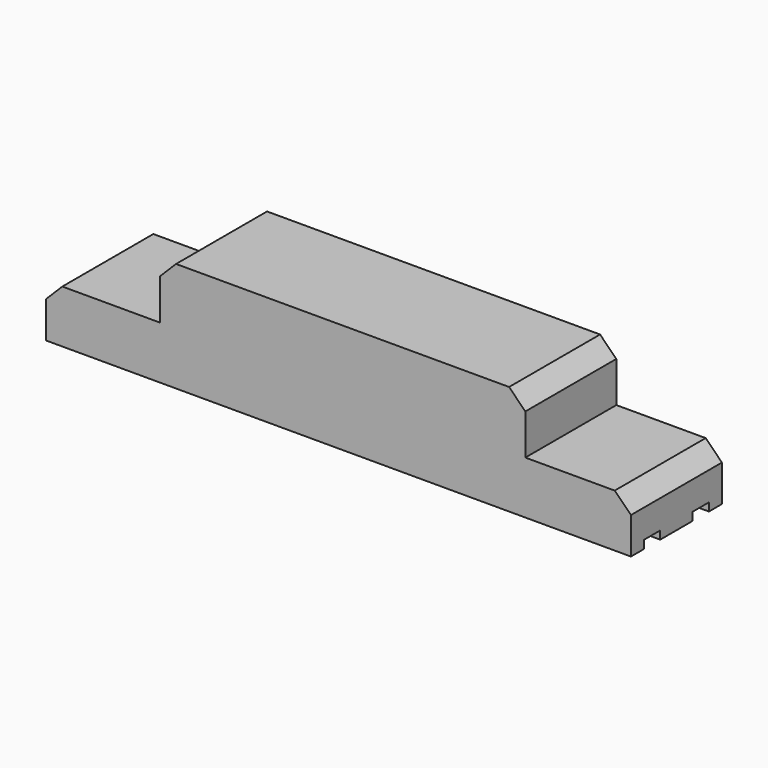
from build123d import *

# Parameters (mm, degrees)
F1_DEPTH = 44.45
F2_SIZE  = 12.7
F3_W     = 15.875
F3_H     = 6.35
F4_DEPTH = 241.3


with BuildPart() as f1:
    # F0 (on Front) → F1 (new body, symmetric)
    with BuildSketch(Plane.XZ):
        Polygon((228.6, -20.6375), (228.6, 20.6375), (146.05, 20.6375), (146.05, 65.0875), (-139.7, 65.0875), (-139.7, 20.6375), (-228.6, 20.6375), (-228.6, -20.6375), align=None)
    extrude(amount=F1_DEPTH, both=True)

    # F2
    f2_edges = [f1.edges().sort_by_distance(p)[0] for p in [
        (146.05, 0, 65.0875),
        (-139.7, 0, 65.0875),
        (-228.6, 0, 20.6375),
        (228.6, 0, 20.6375),
    ]]
    chamfer(f2_edges, length=F2_SIZE)

    # F3 (on Right) → F4 (cut, symmetric)
    with BuildSketch(Plane.YZ):
        with Locations((-23.8125, -17.4625)):
            Rectangle(F3_W, F3_H)
        with Locations((23.8125, -17.4625)):
            Rectangle(F3_W, F3_H)
    extrude(amount=F4_DEPTH, both=True, mode=Mode.SUBTRACT)


solid = f1.part
